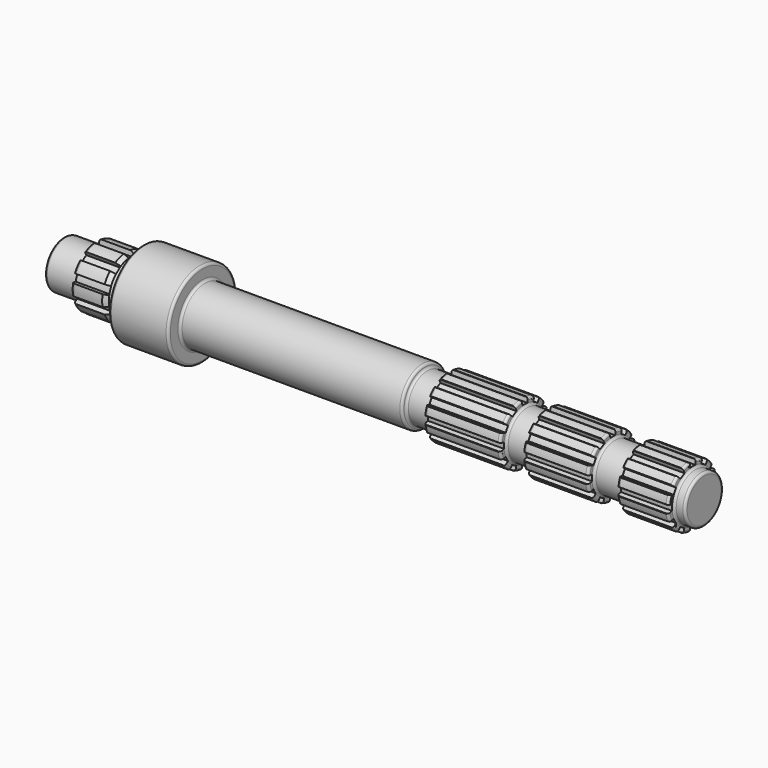
from build123d import *

# Parameters (mm, degrees)
F3_DEPTH = 15
F5_DEPTH = 110


with BuildPart() as f1:
    # F0 (on Front) → F1 (revolve)
    with BuildSketch(Plane.XZ):
        with BuildLine():
            Line((0, 9), (0, 0))
            Line((0, 0), (270, 0))
            Line((270, 0), (270, 9))
            ThreePointArc((270, 9), (269.707107, 9.707107), (269, 10))
            Line((269, 10), (266.202618, 10))
            ThreePointArc((266.202618, 10), (265.495511, 10.292893), (265.202618, 11))
            Line((265.202618, 11), (265.202618, 12))
            ThreePointArc((265.202618, 12), (264.909725, 12.707107), (264.202618, 13))
            Line((264.202618, 13), (244.668733, 13))
            ThreePointArc((244.668733, 13), (243.961627, 12.707107), (243.668733, 12))
            Line((243.668733, 12), (243.668733, 11))
            ThreePointArc((243.668733, 11), (243.37584, 10.292893), (242.668733, 10))
            Line((242.668733, 10), (232.408829, 10))
            ThreePointArc((232.408829, 10), (231.701722, 10.292893), (231.408829, 11))
            Line((231.408829, 11), (231.408829, 12))
            ThreePointArc((231.408829, 12), (231.115936, 12.707107), (230.408829, 13))
            Line((230.408829, 13), (204.957296, 13))
            ThreePointArc((204.957296, 13), (204.250189, 12.707107), (203.957296, 12))
            Line((203.957296, 12), (203.957296, 11))
            ThreePointArc((203.957296, 11), (203.664402, 10.292893), (202.957296, 10))
            Line((202.957296, 10), (195.362577, 10))
            ThreePointArc((195.362577, 10), (194.65547, 10.292893), (194.362577, 11))
            Line((194.362577, 11), (194.362577, 12))
            ThreePointArc((194.362577, 12), (194.069684, 12.707107), (193.362577, 13))
            Line((193.362577, 13), (163.252463, 13))
            ThreePointArc((163.252463, 13), (162.545356, 12.707107), (162.252463, 12))
            Line((162.252463, 12), (162.252463, 11))
            ThreePointArc((162.252463, 11), (161.95957, 10.292893), (161.252463, 10))
            Line((161.252463, 10), (153.252463, 10))
            ThreePointArc((153.252463, 10), (152.545356, 10.292893), (152.252463, 11))
            ThreePointArc((152.252463, 11), (151.95957, 11.707107), (151.252463, 12))
            Line((151.252463, 12), (59.47809, 12))
            ThreePointArc((59.47809, 12), (58.770983, 12.292893), (58.47809, 13))
            Line((58.47809, 13), (58.47809, 17))
            ThreePointArc((58.47809, 17), (58.185197, 17.707107), (57.47809, 18))
            Line((57.47809, 18), (34.41318, 18))
            ThreePointArc((34.41318, 18), (33.706074, 17.707107), (33.41318, 17))
            Line((33.41318, 17), (33.41318, 13))
            ThreePointArc((33.41318, 13), (33.120287, 12.292893), (32.41318, 12))
            Line((32.41318, 12), (28.57098, 12))
            Line((28.57098, 12), (26.57098, 13))
            Line((26.57098, 13), (14.625095, 13))
            ThreePointArc((14.625095, 13), (13.917988, 12.707107), (13.625095, 12))
            Line((13.625095, 12), (13.625095, 10))
            Line((13.625095, 10), (1, 10))
            ThreePointArc((1, 10), (0.292893, 9.707107), (0, 9))
        make_face()
    revolve(axis=Axis((135, 0, 0), (-1, 0, 0)))

    # F2 (on face) → F3 (cut)
    with BuildSketch(Plane(origin=(13.625095, 0, 0), x_dir=(0, -1, 0), z_dir=(-1, 0, 0))):
        with BuildLine():
            Line((1.45, 13.03288), (-1.55, 13.03288))
            ThreePointArc((-1.55, 13.03288), (-1.691421, 12.974301), (-1.75, 12.83288))
            Line((-1.75, 12.83288), (-1.47381, 10.807558))
            ThreePointArc((-1.47381, 10.807558), (-0.041765, 10.907506), (1.391003, 10.818527))
            Line((1.391003, 10.818527), (1.65, 12.83288))
            ThreePointArc((1.65, 12.83288), (1.591421, 12.974301), (1.45, 13.03288))
        make_face()
        with BuildLine():
            Line((-6.48746, 11.39611), (-8.914511, 9.632754))
            ThreePointArc((-8.914511, 9.632754), (-8.994492, 9.502238), (-8.958757, 9.353394))
            Line((-8.958757, 9.353394), (-7.54486, 7.877214))
            ThreePointArc((-7.54486, 7.877214), (-6.44506, 8.799808), (-5.233626, 9.569983))
            Line((-5.233626, 9.569983), (-6.2081, 11.351864))
            ThreePointArc((-6.2081, 11.351864), (-6.338616, 11.431844), (-6.48746, 11.39611))
        make_face()
        with BuildLine():
            Line((-11.946931, 5.406413), (-12.873982, 2.553244))
            ThreePointArc((-12.873982, 2.553244), (-12.861972, 2.400642), (-12.745574, 2.301229))
            Line((-12.745574, 2.301229), (-10.734031, 1.938042))
            ThreePointArc((-10.734031, 1.938042), (-10.38656, 3.330883), (-9.859187, 4.666031))
            Line((-9.859187, 4.666031), (-11.694916, 5.534821))
            ThreePointArc((-11.694916, 5.534821), (-11.847518, 5.522811), (-11.946931, 5.406413))
        make_face()
        with BuildLine():
            Line((-12.84308, -2.648349), (-11.916029, -5.501519))
            ThreePointArc((-11.916029, -5.501519), (-11.816616, -5.617917), (-11.664014, -5.629927))
            Line((-11.664014, -5.629927), (-9.823166, -4.741396))
            ThreePointArc((-9.823166, -4.741396), (-10.360748, -3.410326), (-10.718874, -2.020187))
            Line((-10.718874, -2.020187), (-12.714672, -2.396335))
            ThreePointArc((-12.714672, -2.396335), (-12.83107, -2.495748), (-12.84308, -2.648349))
        make_face()
        with BuildLine():
            Line((-8.833609, -9.691533), (-6.406558, -11.454889))
            ThreePointArc((-6.406558, -11.454889), (-6.257714, -11.490623), (-6.127198, -11.410642))
            Line((-6.127198, -11.410642), (-5.160186, -9.609782))
            ThreePointArc((-5.160186, -9.609782), (-6.377482, -8.848906), (-7.484316, -7.934762))
            Line((-7.484316, -7.934762), (-8.877856, -9.412172))
            ThreePointArc((-8.877856, -9.412172), (-8.91359, -9.561016), (-8.833609, -9.691533))
        make_face()
        with BuildLine():
            Line((-1.45, -13.03288), (1.55, -13.03288))
            ThreePointArc((1.55, -13.03288), (1.691421, -12.974301), (1.75, -12.83288))
            Line((1.75, -12.83288), (1.47381, -10.807558))
            ThreePointArc((1.47381, -10.807558), (0.041765, -10.907506), (-1.391003, -10.818527))
            Line((-1.391003, -10.818527), (-1.65, -12.83288))
            ThreePointArc((-1.65, -12.83288), (-1.591421, -12.974301), (-1.45, -13.03288))
        make_face()
        with BuildLine():
            Line((6.48746, -11.39611), (8.914511, -9.632754))
            ThreePointArc((8.914511, -9.632754), (8.994492, -9.502238), (8.958757, -9.353394))
            Line((8.958757, -9.353394), (7.54486, -7.877214))
            ThreePointArc((7.54486, -7.877214), (6.44506, -8.799808), (5.233626, -9.569983))
            Line((5.233626, -9.569983), (6.2081, -11.351864))
            ThreePointArc((6.2081, -11.351864), (6.338616, -11.431844), (6.48746, -11.39611))
        make_face()
        with BuildLine():
            Line((11.946931, -5.406413), (12.873982, -2.553244))
            ThreePointArc((12.873982, -2.553244), (12.861972, -2.400642), (12.745574, -2.301229))
            Line((12.745574, -2.301229), (10.734031, -1.938042))
            ThreePointArc((10.734031, -1.938042), (10.38656, -3.330883), (9.859187, -4.666031))
            Line((9.859187, -4.666031), (11.694916, -5.534821))
            ThreePointArc((11.694916, -5.534821), (11.847518, -5.522811), (11.946931, -5.406413))
        make_face()
        with BuildLine():
            Line((12.84308, 2.648349), (11.916029, 5.501519))
            ThreePointArc((11.916029, 5.501519), (11.816616, 5.617917), (11.664014, 5.629927))
            Line((11.664014, 5.629927), (9.823166, 4.741396))
            ThreePointArc((9.823166, 4.741396), (10.360748, 3.410326), (10.718874, 2.020187))
            Line((10.718874, 2.020187), (12.714672, 2.396335))
            ThreePointArc((12.714672, 2.396335), (12.83107, 2.495748), (12.84308, 2.648349))
        make_face()
        with BuildLine():
            Line((8.833609, 9.691533), (6.406558, 11.454889))
            ThreePointArc((6.406558, 11.454889), (6.257714, 11.490623), (6.127198, 11.410642))
            Line((6.127198, 11.410642), (5.160186, 9.609782))
            ThreePointArc((5.160186, 9.609782), (6.377482, 8.848906), (7.484316, 7.934762))
            Line((7.484316, 7.934762), (8.877856, 9.412172))
            ThreePointArc((8.877856, 9.412172), (8.91359, 9.561016), (8.833609, 9.691533))
        make_face()
    extrude(amount=-F3_DEPTH, mode=Mode.SUBTRACT)

    # F4 (on face) → F5 (cut)
    with BuildSketch(Plane.YZ.offset(265.202618)):
        with BuildLine():
            ThreePointArc((-1.16844, 10.943811), (0.076933, 11.005741), (1.321318, 10.926407))
            Line((1.321318, 10.926407), (1.632413, 12.800002))
            Line((1.632413, 12.800002), (2.209034, 13.198145))
            Line((2.209034, 13.198145), (-2.582415, 13.198145))
            Line((-2.582415, 13.198145), (-2.019522, 12.964751))
            Line((-2.019522, 12.964751), (-1.621379, 12.800002))
            Line((-1.621379, 12.800002), (-1.16844, 10.943811))
        make_face()
        with BuildLine():
            ThreePointArc((-6.483805, 8.893398), (-5.436245, 9.569718), (-4.318909, 10.123205))
            Line((-4.318909, 10.123205), (-4.98629, 11.901333))
            Line((-4.98629, 11.901333), (-4.685993, 12.534446))
            Line((-4.685993, 12.534446), (-8.835509, 10.138721))
            Line((-8.835509, 10.138721), (-8.231333, 10.218042))
            Line((-8.231333, 10.218042), (-7.804156, 10.274437))
            Line((-7.804156, 10.274437), (-6.483805, 8.893398))
        make_face()
        with BuildLine():
            ThreePointArc((-10.061839, 4.460007), (-9.492785, 5.569496), (-8.801887, 6.607499))
            Line((-8.801887, 6.607499), (-10.26892, 7.813712))
            Line((-10.26892, 7.813712), (-10.325411, 8.512152))
            Line((-10.325411, 8.512152), (-12.721136, 4.362636))
            Line((-12.721136, 4.362636), (-12.237565, 4.733418))
            Line((-12.237565, 4.733418), (-11.895816, 4.995845))
            Line((-11.895816, 4.995845), (-10.061839, 4.460007))
        make_face()
        with BuildLine():
            ThreePointArc((-10.943811, -1.16844), (-11.005741, 0.076933), (-10.926407, 1.321318))
            Line((-10.926407, 1.321318), (-12.800002, 1.632413))
            Line((-12.800002, 1.632413), (-13.198145, 2.209034))
            Line((-13.198145, 2.209034), (-13.198145, -2.582415))
            Line((-13.198145, -2.582415), (-12.964751, -2.019522))
            Line((-12.964751, -2.019522), (-12.800002, -1.621379))
            Line((-12.800002, -1.621379), (-10.943811, -1.16844))
        make_face()
        with BuildLine():
            ThreePointArc((-8.893398, -6.483805), (-9.569718, -5.436245), (-10.123205, -4.318909))
            Line((-10.123205, -4.318909), (-11.901333, -4.98629))
            Line((-11.901333, -4.98629), (-12.534446, -4.685993))
            Line((-12.534446, -4.685993), (-10.138721, -8.835509))
            Line((-10.138721, -8.835509), (-10.218042, -8.231333))
            Line((-10.218042, -8.231333), (-10.274437, -7.804156))
            Line((-10.274437, -7.804156), (-8.893398, -6.483805))
        make_face()
        with BuildLine():
            ThreePointArc((-4.460007, -10.061839), (-5.569496, -9.492785), (-6.607499, -8.801887))
            Line((-6.607499, -8.801887), (-7.813712, -10.26892))
            Line((-7.813712, -10.26892), (-8.512152, -10.325411))
            Line((-8.512152, -10.325411), (-4.362636, -12.721136))
            Line((-4.362636, -12.721136), (-4.733418, -12.237565))
            Line((-4.733418, -12.237565), (-4.995845, -11.895816))
            Line((-4.995845, -11.895816), (-4.460007, -10.061839))
        make_face()
        with BuildLine():
            ThreePointArc((1.16844, -10.943811), (-0.076933, -11.005741), (-1.321318, -10.926407))
            Line((-1.321318, -10.926407), (-1.632413, -12.800002))
            Line((-1.632413, -12.800002), (-2.209034, -13.198145))
            Line((-2.209034, -13.198145), (2.582415, -13.198145))
            Line((2.582415, -13.198145), (2.019522, -12.964751))
            Line((2.019522, -12.964751), (1.621379, -12.800002))
            Line((1.621379, -12.800002), (1.16844, -10.943811))
        make_face()
        with BuildLine():
            ThreePointArc((6.483805, -8.893398), (5.436245, -9.569718), (4.318909, -10.123205))
            Line((4.318909, -10.123205), (4.98629, -11.901333))
            Line((4.98629, -11.901333), (4.685993, -12.534446))
            Line((4.685993, -12.534446), (8.835509, -10.138721))
            Line((8.835509, -10.138721), (8.231333, -10.218042))
            Line((8.231333, -10.218042), (7.804156, -10.274437))
            Line((7.804156, -10.274437), (6.483805, -8.893398))
        make_face()
        with BuildLine():
            ThreePointArc((10.061839, -4.460007), (9.492785, -5.569496), (8.801887, -6.607499))
            Line((8.801887, -6.607499), (10.26892, -7.813712))
            Line((10.26892, -7.813712), (10.325411, -8.512152))
            Line((10.325411, -8.512152), (12.721136, -4.362636))
            Line((12.721136, -4.362636), (12.237565, -4.733418))
            Line((12.237565, -4.733418), (11.895816, -4.995845))
            Line((11.895816, -4.995845), (10.061839, -4.460007))
        make_face()
        with BuildLine():
            ThreePointArc((10.943811, 1.16844), (11.005741, -0.076933), (10.926407, -1.321318))
            Line((10.926407, -1.321318), (12.800002, -1.632413))
            Line((12.800002, -1.632413), (13.198145, -2.209034))
            Line((13.198145, -2.209034), (13.198145, 2.582415))
            Line((13.198145, 2.582415), (12.964751, 2.019522))
            Line((12.964751, 2.019522), (12.800002, 1.621379))
            Line((12.800002, 1.621379), (10.943811, 1.16844))
        make_face()
        with BuildLine():
            ThreePointArc((8.893398, 6.483805), (9.569718, 5.436245), (10.123205, 4.318909))
            Line((10.123205, 4.318909), (11.901333, 4.98629))
            Line((11.901333, 4.98629), (12.534446, 4.685993))
            Line((12.534446, 4.685993), (10.138721, 8.835509))
            Line((10.138721, 8.835509), (10.218042, 8.231333))
            Line((10.218042, 8.231333), (10.274437, 7.804156))
            Line((10.274437, 7.804156), (8.893398, 6.483805))
        make_face()
        with BuildLine():
            ThreePointArc((4.460007, 10.061839), (5.569496, 9.492785), (6.607499, 8.801887))
            Line((6.607499, 8.801887), (7.813712, 10.26892))
            Line((7.813712, 10.26892), (8.512152, 10.325411))
            Line((8.512152, 10.325411), (4.362636, 12.721136))
            Line((4.362636, 12.721136), (4.733418, 12.237565))
            Line((4.733418, 12.237565), (4.995845, 11.895816))
            Line((4.995845, 11.895816), (4.460007, 10.061839))
        make_face()
    extrude(amount=-F5_DEPTH, mode=Mode.SUBTRACT)


solid = f1.part
